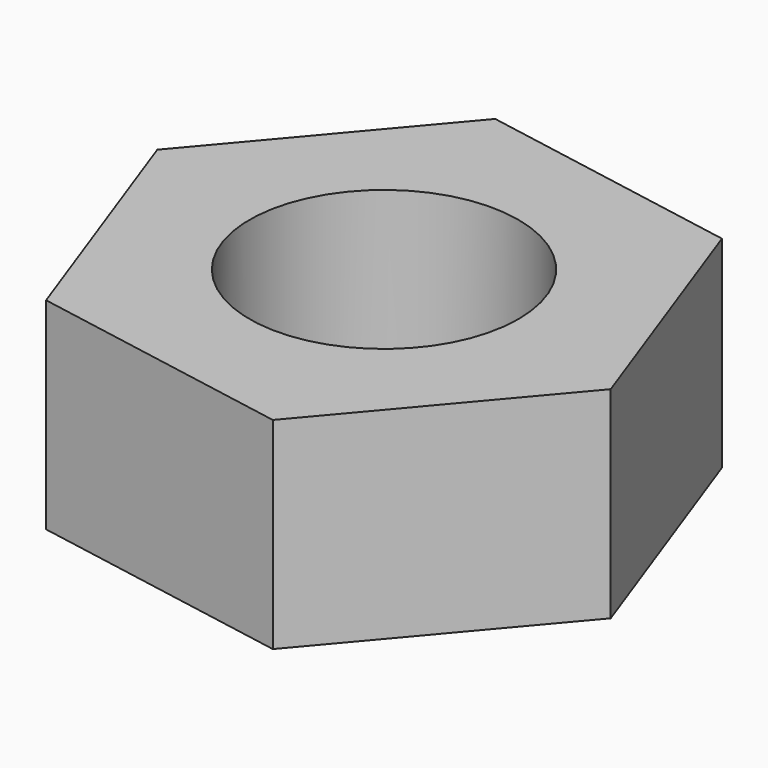
from build123d import *

# Parameters (mm, degrees)
SKETCH_R  = 4
PAD_DEPTH = 6


with BuildPart() as part:
    # Sketch → Pad (new body)
    with BuildSketch(Plane.XY):
        Polygon((5.160825, 6.112764), (-2.713397, 7.525787), (-7.874222, 1.413023), (-5.160825, -6.112764), (2.713397, -7.525787), (7.874222, -1.413023), align=None)
        Circle(SKETCH_R, mode=Mode.SUBTRACT)
    extrude(amount=PAD_DEPTH)


solid = part.part
